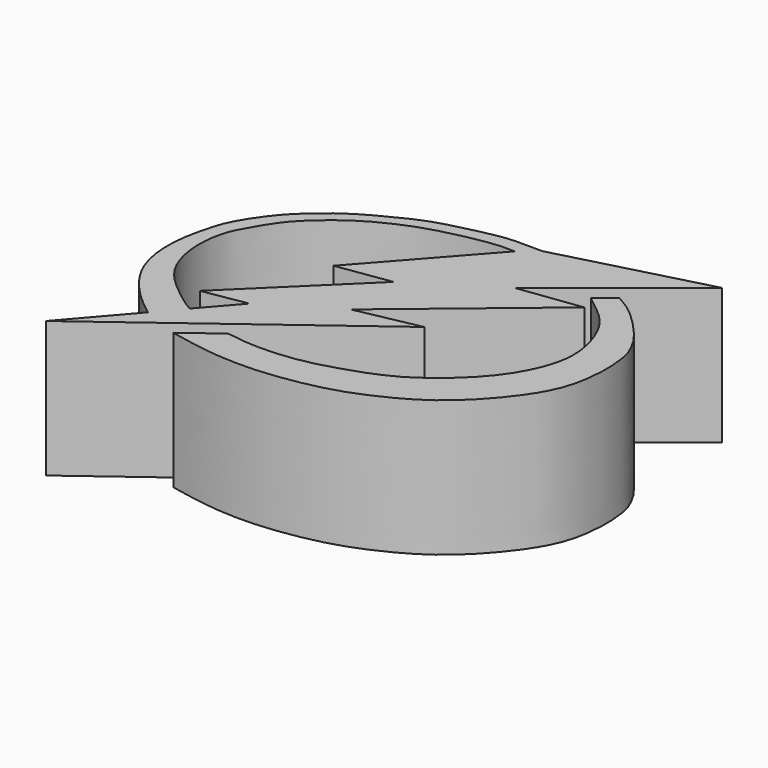
from build123d import *

# Parameters (mm, degrees)
F1_DEPTH = 25.4


with BuildPart() as f1:
    # F0 (on Top) → F1 (new body)
    with BuildSketch(Plane.XY):
        with BuildLine():
            Line((10.864504613, 11.5755023435), (0.9747328586, 0.1376004948))
            Line((0.9747328586, 0.1376004948), (45.2174395323, 33.1179872155))
            Line((45.2174395323, 33.1179872155), (33.3783440292, 30.7379085571))
            Line((33.3783440292, 30.7379085571), (59.5699176192, 52.5246672332))
            Line((59.5699176192, 52.5246672332), (47.7696284652, 50.9874224663))
            Line((47.7696284652, 50.9874224663), (71.3923275471, 69.8825776063))
            Line((71.3923275471, 69.8825776063), (43.6887480319, 62.5775828958))
            add(Edge.make_bspline(
                [(43.6887480319, 62.5775828958), (43.0875332361, 62.5716137492), (41.6674151482, 62.5575141411), (37.8806486678, 62.6923448895), (34.455560295, 62.1121427041), (28.961590419, 60.8474777004), (24.419791878, 59.5479441663), (20.5301854243, 57.6795941779), (14.5704239426, 54.5981730751), (10.404192828, 51.3402114328), (6.2927973584, 47.5836774711), (2.2441737221, 41.4848547215), (1.1962828762, 37.9788065394), (-0.4958978716, 31.3176605607), (0.4393403, 22.5494377943), (5.1296002393, 16.4381826749), (8.340547051, 13.4524260424), (10.0741006536, 12.163280817), (10.864504613, 11.5755023435)],
                knots=[0, 0, 0, 0, 0.0393230905, 0.0928843277, 0.1459402353, 0.2120782925, 0.2727584507, 0.3308515796, 0.40286638, 0.4671851532, 0.533772906, 0.608108541, 0.6617575665, 0.7335395787, 0.8165602186, 0.8932761667, 0.9513398719, 1, 1, 1, 1], degree=3))
        make_face()
        with BuildLine():
            add(Edge.make_bspline(
                [(40.5811704695, 59.9996186793), (39.7000493726, 60.0327494149), (37.6577005231, 60.1095430816), (32.8651519299, 59.3389845452), (26.0762103078, 57.7670354296), (21.0251547063, 55.6630928601), (16.1947457049, 53.1243098386), (12.0431276447, 49.8287557563), (8.3074245716, 46.2858663723), (5.5007421926, 41.3914608993), (3.6363485416, 38.0560025966), (2.819103453, 31.3409472628), (4.8792832307, 24.4446089467), (9.0286332959, 20.437323293), (13.1287691762, 17.2655090434), (14.3871791985, 16.5540891382), (14.8631427437, 16.2850115448)],
                knots=[0, 0, 0, 0, 0.0533585134, 0.1236795927, 0.2084451349, 0.2836295249, 0.3576121735, 0.4308488556, 0.5037700814, 0.5784669466, 0.6408484233, 0.7223586051, 0.8071746244, 0.8844167139, 0.9562833817, 1, 1, 1, 1], degree=3))
            Line((40.5811704695, 59.9996186793), (22.7985139936, 39.949581027))
            Line((22.7985139936, 39.949581027), (32.8385718167, 41.443284601))
            Line((32.8385718167, 41.443284601), (12.5205619261, 21.5791575611))
            Line((12.5205619261, 21.5791575611), (20.6975564361, 22.9643043131))
            Line((20.6975564361, 22.9643043131), (14.8631427437, 16.2850115448))
        make_face(mode=Mode.SUBTRACT)
    extrude(amount=F1_DEPTH)


with BuildPart() as f1b:
    # F0 (on Top) → F1, piece 2 (new body)
    with BuildSketch(Plane.XY):
        with BuildLine():
            add(Edge.make_bspline(
                [(61.6992712021, 58.0777078867), (62.593038694, 57.5626037534), (64.4334547811, 56.5019185729), (67.1181674725, 54.1852174022), (69.4860152713, 51.7031416052), (71.8670943599, 48.8919132882), (73.8424457561, 44.9660267371), (74.0945241162, 41.9559591978), (74.3025107047, 40.3110744307), (74.1835021904, 35.4598092693), (72.8781589633, 29.8414033709), (68.7324142248, 23.3895852718), (61.9867761915, 16.2940624552), (54.8208131198, 12.2152282865), (48.1845307282, 9.453187083), (42.0805668666, 8.0323865069), (34.8413293096, 6.9717114456), (26.2725720905, 7.0964514371), (20.6131400772, 8.2502745001), (17.7719438774, 8.8295265688)],
                knots=[0, 0, 0, 0, 0.0448250287, 0.092302198, 0.1390260415, 0.1877941832, 0.2409788153, 0.2837285607, 0.3160106559, 0.3702840764, 0.4314149985, 0.501108459, 0.5803195518, 0.6531562215, 0.7203239803, 0.783247441, 0.851372124, 0.9253845694, 1, 1, 1, 1], degree=3))
            Line((61.6992712021, 58.0777078867), (58.4194585681, 55.4805696011))
            add(Edge.make_bspline(
                [(24.2238212377, 13.6390291154), (25.6041241564, 13.4102615014), (28.5863049853, 12.9160030428), (34.6600126671, 13.0776498931), (40.4757201435, 14.047436597), (49.2246815262, 16.8741168707), (54.8684855773, 20.0247759074), (60.8667850553, 25.0531114094), (65.8232529015, 31.3471325111), (68.8033901799, 40.1447513845), (65.5928400903, 49.1215106568), (62.2891450989, 52.4626345366), (59.7173646751, 54.4683438511), (58.4194585681, 55.4805696011)],
                knots=[0, 0, 0, 0, 0.0734379394, 0.1586646033, 0.2453518248, 0.3507074217, 0.4408496419, 0.5375155853, 0.636853644, 0.7423131031, 0.8474861883, 0.9230305178, 1, 1, 1, 1], degree=3))
            Line((24.2238212377, 13.6390291154), (17.7719438774, 8.8295265688))
        make_face()
    extrude(amount=F1_DEPTH)


solid = Compound([f1.part, f1b.part])
